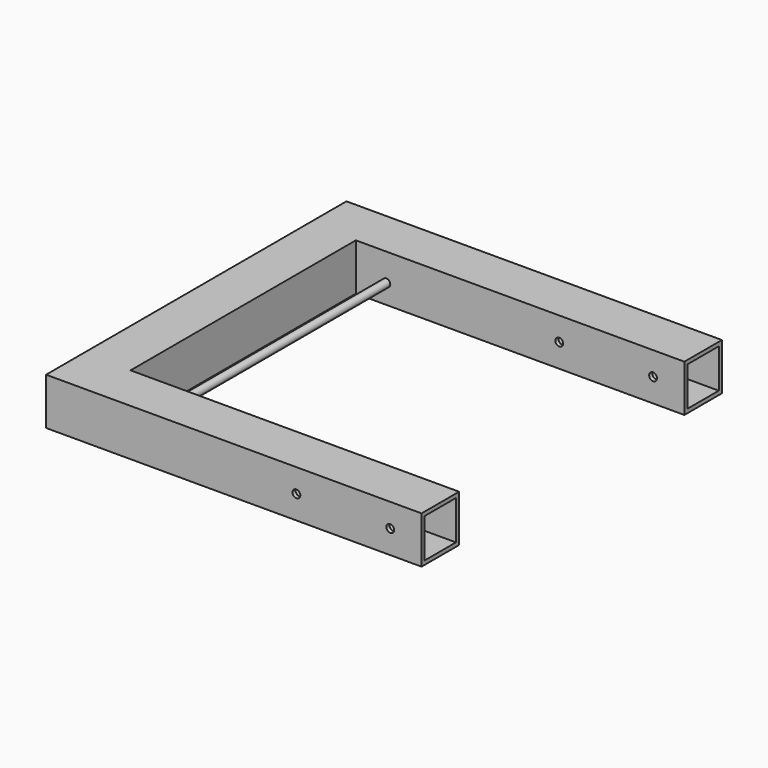
from build123d import *

# Parameters (mm, degrees)
F1_DEPTH = 76.2
F2_T     = -6.35
F3_R     = 6.35
F4_DEPTH = 609.6
F6_D     = 12.7


with BuildPart() as f1:
    # F0 (on Top) → F1 (new body)
    with BuildSketch(Plane.XY):
        Polygon((-304.8, 304.8), (-304.8, -304.8), (304.8, -304.8), (304.8, -228.6), (-228.6, -228.6), (-228.6, 228.6), (304.8, 228.6), (304.8, 304.8), align=None)
    extrude(amount=F1_DEPTH)

    # F2
    f2_openings = [f1.faces().sort_by_distance(p)[0] for p in [
        (304.8, -266.7, 38.1),
        (304.8, 266.7, 38.1),
    ]]
    offset(amount=F2_T, openings=f2_openings, kind=Kind.INTERSECTION)

    # F3 (on face) → F4 (join)
    with BuildSketch(Plane.XZ.offset(304.8)):
        with Locations((-179.052978754, 31.5465517342)):
            Circle(F3_R)
    extrude(amount=-F4_DEPTH)

    # F6 (through all)
    with Locations(Plane(origin=(0, 304.8, 0), x_dir=(-1, 0, 0), z_dir=(0, 1, 0))):
        with Locations((-254, 38.1), (-101.6, 38.1)):
            Hole(F6_D / 2)


solid = f1.part
